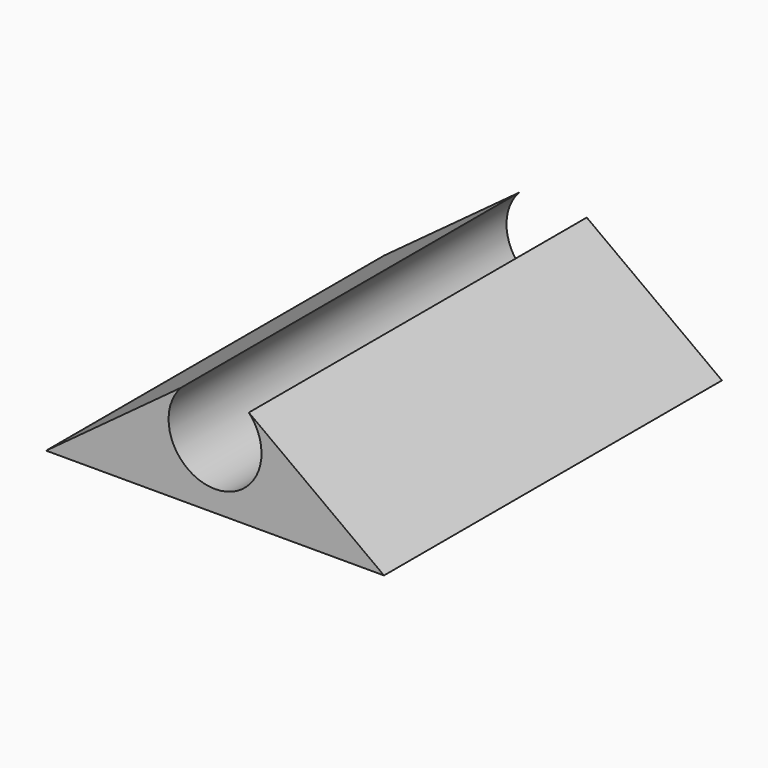
from build123d import *

# Parameters (mm, degrees)
PAD_DEPTH = 25


with BuildPart() as part:
    # Sketch → Pad (new body)
    with BuildSketch(Plane.XZ):
        with BuildLine():
            Line((-10, 0), (10, 0))
            Line((10, 0), (2, 5.887459))
            ThreePointArc((-2, 5.887459), (0, 1.25), (2, 5.887459))
            Line((-10, 0), (-2, 5.887459))
        make_face()
    extrude(amount=PAD_DEPTH)


solid = part.part
